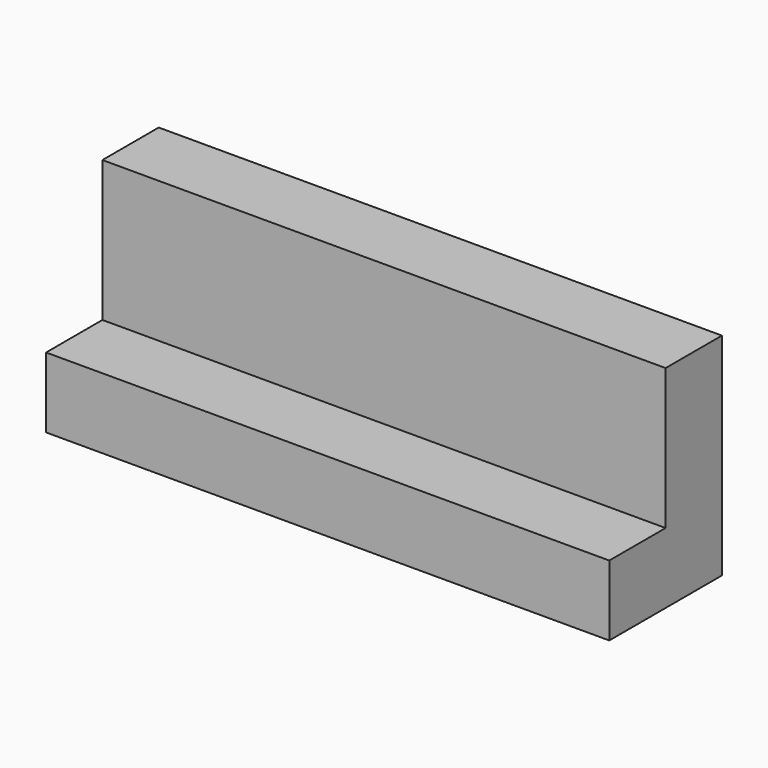
from build123d import *

# Parameters (mm, degrees)
F0_W     = 50.8
F0_H     = 12.7
F1_DEPTH = 6.35
F3_DEPTH = 12.7


with BuildPart() as f1:
    # F0 (on Top) → F1 (new body)
    with BuildSketch(Plane.XY):
        with Locations((25.4, 6.35)):
            Rectangle(F0_W, F0_H)
    extrude(amount=F1_DEPTH)

    # F2 (on face) → F3 (join)
    with BuildSketch(Plane.XY.offset(6.35)):
        Polygon((50.8, 12.7), (0, 12.7), (0, 6.35), (19.05, 6.35), (25.4, 6.35), (31.75, 6.35), (50.8, 6.35), align=None)
    extrude(amount=F3_DEPTH)


solid = f1.part
